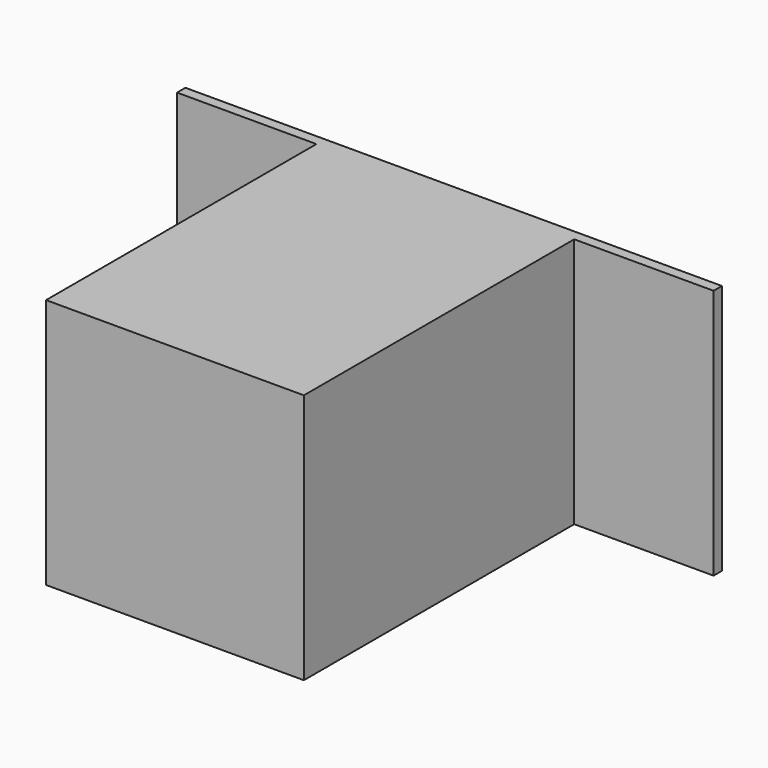
from build123d import *

# Parameters (mm, degrees)
F0_W     = 195.58
F0_H     = 91.44
F1_DEPTH = 127
F2_W     = 50.8
F2_H     = 91.44
F3_DEPTH = 123.19


with BuildPart() as f1:
    # F0 (on Front) → F1 (new body)
    with BuildSketch(Plane.XZ):
        with Locations((97.79, 45.72)):
            Rectangle(F0_W, F0_H)
    extrude(amount=-F1_DEPTH)

    # F2 (on face) → F3 (cut)
    with BuildSketch(Plane.XZ):
        with Locations((25.4, 45.72)):
            Rectangle(F2_W, F2_H)
        with Locations((170.18, 45.72)):
            Rectangle(F2_W, F2_H)
    extrude(amount=-F3_DEPTH, mode=Mode.SUBTRACT)


solid = f1.part
